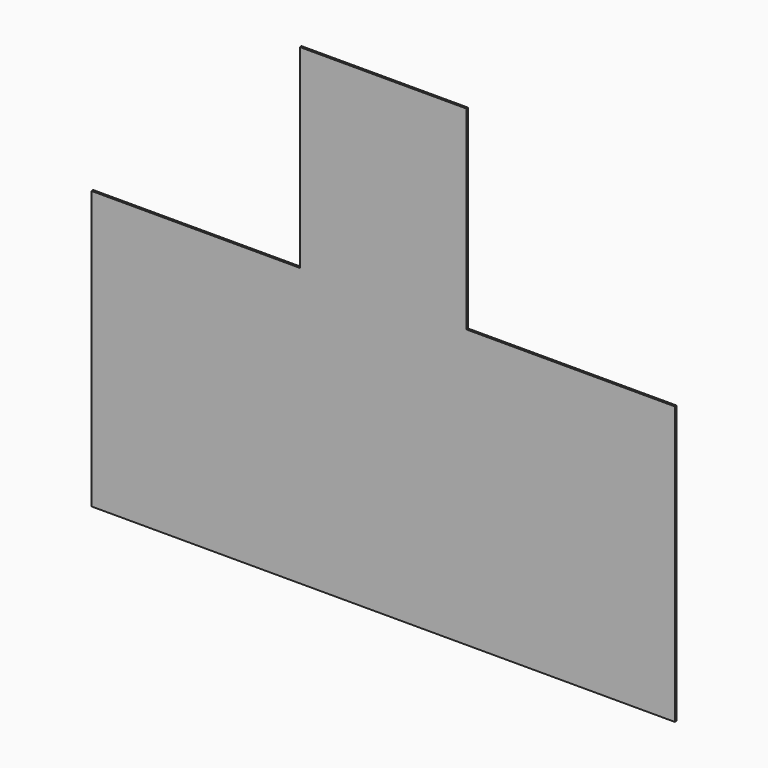
from build123d import *

# Parameters (mm, degrees)
F1_DEPTH = 1.905
F2_DEPTH = 1.905


with BuildPart() as f1:
    # F0 (on Front) → F1 (new body)
    with BuildSketch(Plane.XZ):
        Polygon((-275.385344, 43.545973), (-275.385344, -210.454027), (258.014656, -210.454027), (258.014656, 43.545973), (67.514656, 43.545973), (67.514656, 221.345973), (-84.885344, 221.345973), (-84.885344, 43.545973), align=None)
        Polygon((-82.980344, 219.440973), (65.609656, 219.440973), (65.609656, 41.640973), (256.109656, 41.640973), (256.109656, -208.549027), (-273.480344, -208.549027), (-273.480344, 41.640973), (-82.980344, 41.640973), align=None, mode=Mode.SUBTRACT)
    extrude(amount=F1_DEPTH)

    # F0 (on Front) → F2 (join)
    with BuildSketch(Plane.XZ):
        Polygon((-275.385344, 43.545973), (-275.385344, -210.454027), (258.014656, -210.454027), (258.014656, 43.545973), (67.514656, 43.545973), (67.514656, 221.345973), (-84.885344, 221.345973), (-84.885344, 43.545973), align=None)
        Polygon((-82.980344, 219.440973), (65.609656, 219.440973), (65.609656, 41.640973), (256.109656, 41.640973), (256.109656, -208.549027), (-273.480344, -208.549027), (-273.480344, 41.640973), (-82.980344, 41.640973), align=None, mode=Mode.SUBTRACT)
        Polygon((65.609656, 41.640973), (65.609656, 219.440973), (-82.980344, 219.440973), (-82.980344, 41.640973), (-273.480344, 41.640973), (-273.480344, -208.549027), (256.109656, -208.549027), (256.109656, 41.640973), align=None)
    extrude(amount=F2_DEPTH)


solid = f1.part
